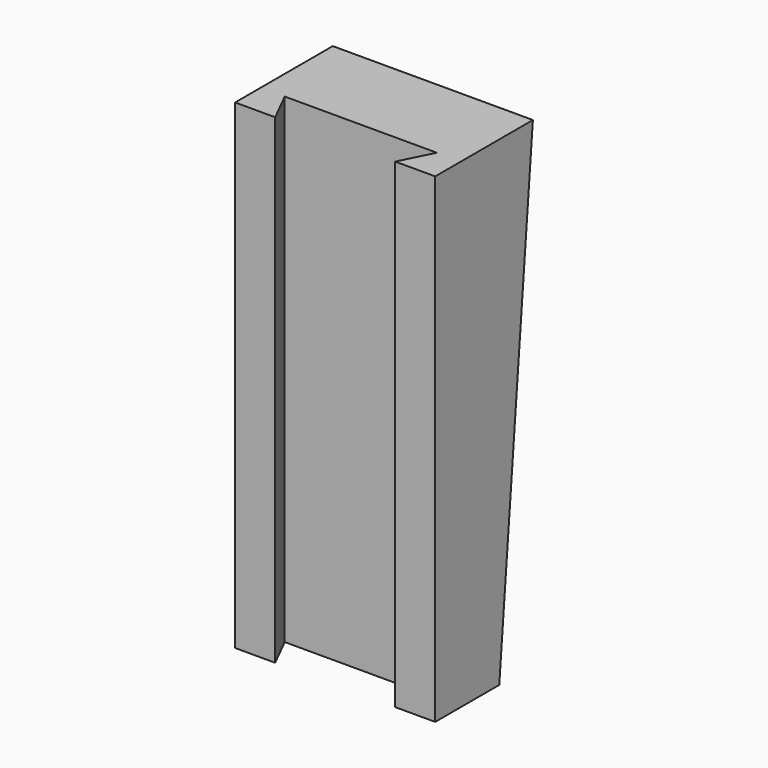
from build123d import *

# Parameters (mm, degrees)
F2_W     = 25
F2_H     = 10
F3_DEPTH = 60
F5_DEPTH = 12.5
F8_DEPTH = 60


with BuildPart() as f3:
    # F2 (on Top) → F3 (new body)
    with BuildSketch(Plane.XY):
        with Locations((0, 5)):
            Rectangle(F2_W, F2_H)
    extrude(amount=F3_DEPTH)

    # F4 (on Right) → F5 (join, symmetric)
    with BuildSketch(Plane.YZ):
        Polygon((10, 60), (10, 0), (15.25, 60), align=None)
    extrude(amount=F5_DEPTH, both=True)

    # F7 (on face) → F8 (cut, through all)
    with BuildSketch(Plane.XY.offset(60)):
        Polygon((-9.5, 4), (-7.5, 0), (7.5, 0), (9.5, 4), align=None)
    extrude(amount=-F8_DEPTH, mode=Mode.SUBTRACT)


solid = f3.part
